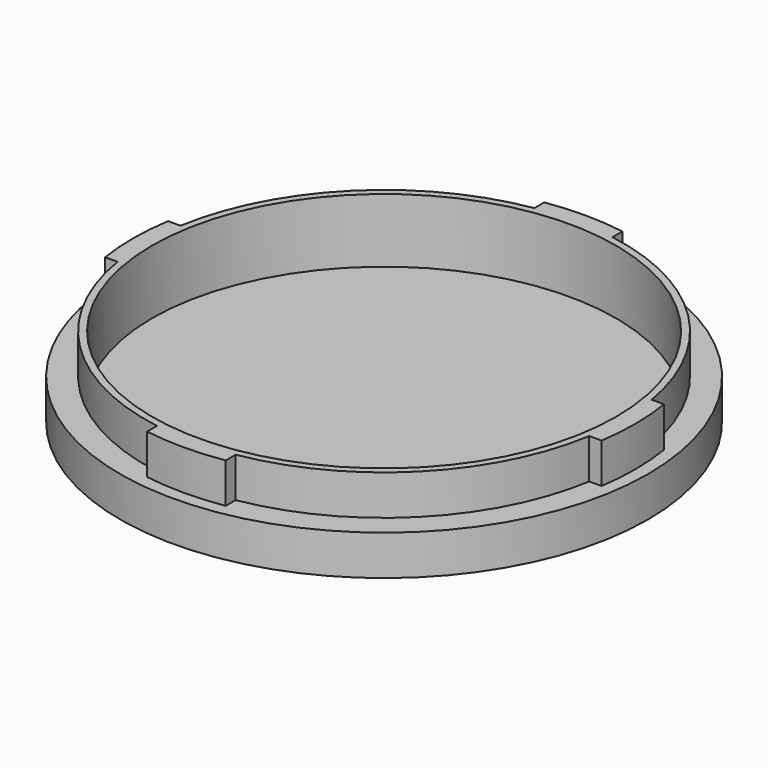
from build123d import *

# Parameters (mm, degrees)
F3_DEPTH = 5


with BuildPart() as f1:
    # F0 (on Front) → F1 (revolve)
    with BuildSketch(Plane.XZ):
        Polygon((31.4, -21.486259), (31.4, -16.486259), (29, -16.486259), (29, -24.486259), (0, -24.486259), (0, -26.486259), (33, -26.486259), (33, -21.486259), align=None)
    revolve(axis=Axis((0, 0, -25.486259), (0, 0, -1)))

    # F2 (on face) → F3 (cut)
    with BuildSketch(Plane.XY.offset(-16.486259)):
        with BuildLine():
            ThreePointArc((-29.451353, 5), (-21.051433, 21.194796), (-4.8, 29.48461))
            Line((-4.8, 29.48461), (-4.8, 29.512201))
            Line((-4.8, 29.512201), (-4.8, 31.030952))
            ThreePointArc((-4.8, 31.030952), (-22.13145, 22.274625), (-30.999355, 5))
            Line((-30.999355, 5), (-29.478976, 5))
            Line((-29.478976, 5), (-29.451353, 5))
        make_face()
        with BuildLine():
            Line((-4.8, -29.512201), (-4.8, -29.48461))
            ThreePointArc((-4.8, -29.48461), (-21.123236, -21.123236), (-29.48461, -4.8))
            Line((-29.48461, -4.8), (-29.512201, -4.8))
            Line((-29.512201, -4.8), (-31.030952, -4.8))
            ThreePointArc((-31.030952, -4.8), (-22.203153, -22.203153), (-4.8, -31.030952))
            Line((-4.8, -31.030952), (-4.8, -29.512201))
        make_face()
        with BuildLine():
            Line((29.512201, -4.8), (29.48461, -4.8))
            ThreePointArc((29.48461, -4.8), (21.194796, -21.051433), (5, -29.451353))
            Line((5, -29.451353), (5, -29.478976))
            Line((5, -29.478976), (5, -30.999355))
            ThreePointArc((5, -30.999355), (22.274625, -22.13145), (31.030952, -4.8))
            Line((31.030952, -4.8), (29.512201, -4.8))
        make_face()
        with BuildLine():
            ThreePointArc((5, 29.451353), (21.123236, 21.123236), (29.451353, 5))
            Line((29.451353, 5), (29.478976, 5))
            Line((29.478976, 5), (30.999355, 5))
            ThreePointArc((30.999355, 5), (22.203153, 22.203153), (5, 30.999355))
            Line((5, 30.999355), (5, 29.512201))
            Line((5, 29.512201), (5, 29.451353))
        make_face()
    extrude(amount=-F3_DEPTH, mode=Mode.SUBTRACT)


solid = f1.part
